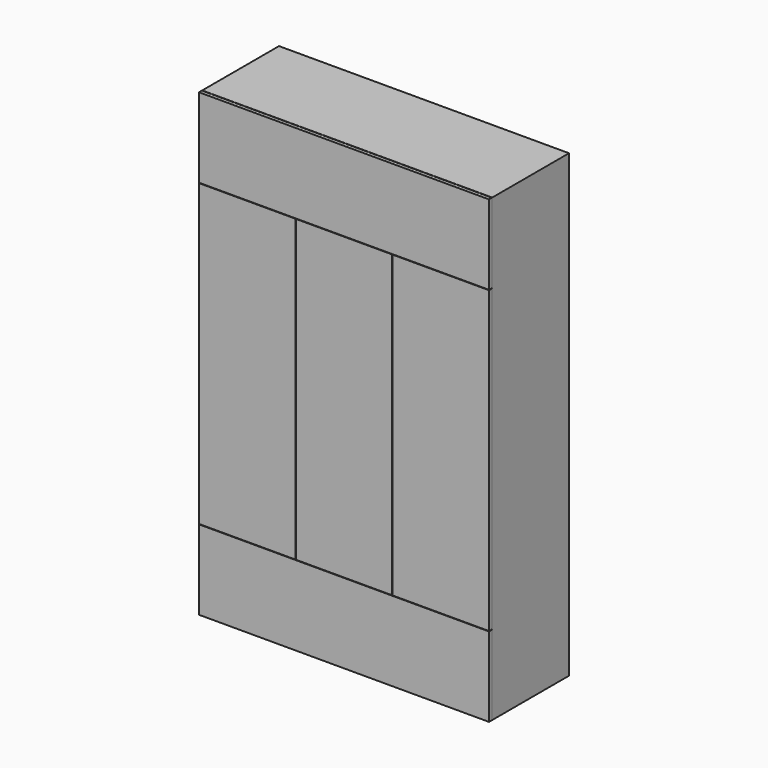
from build123d import *

# Parameters (mm, degrees)
F0_W      = 1450
F0_H      = 2300
F1_DEPTH  = 500
F2_W      = 482
F2_H      = 1500
F3_DEPTH  = 18
F5_DEPTH  = 1450
F6_W      = 1414
F6_H      = 2264
F7_DEPTH  = 480
F9_DEPTH  = 480
F10_W     = 18
F10_H     = 372
F11_DEPTH = 480


with BuildPart() as f1:
    # F0 (on Front) → F1 (new body)
    with BuildSketch(Plane.XZ):
        Rectangle(F0_W, F0_H)
    extrude(amount=F1_DEPTH)

    # F2 (on face) → F3 (cut)
    with BuildSketch(Plane.XZ.offset(500)):
        Polygon((725, 752), (-725, 752), (-725, 750), (-243, 750), (-243, -750), (-725, -750), (-725, -752), (725, -752), (725, -750), (243, -750), (243, 750), (725, 750), align=None)
        Rectangle(F2_W, F2_H, mode=Mode.SUBTRACT)
    extrude(amount=-F3_DEPTH, mode=Mode.SUBTRACT)

    # F4 (on face) → F5 (cut)
    with BuildSketch(Plane.YZ.offset(725)):
        Polygon((-480, 1150), (-482, 1150), (-482, -1150), (-480, -1150), (-480, -753), (-480, -747), (-480, 747), (-480, 753), align=None)
    extrude(amount=-F5_DEPTH, mode=Mode.SUBTRACT)

    # F6 (on face) → F7 (cut)
    with BuildSketch(Plane.XZ):
        Rectangle(F6_W, F6_H)
    extrude(amount=F7_DEPTH, mode=Mode.SUBTRACT)

    # F8 (on face) → F9 (join)
    with BuildSketch(Plane.XZ):
        Polygon((-725, -960), (725, -960), (725, -942), (-233, -942), (-251, -942), (-725, -942), align=None)
        Polygon((-233, -760), (725, -760), (725, -742), (-233, -742), (-233, -560), (725, -560), (725, -542), (-233, -542), (-233, -360), (725, -360), (725, -342), (-233, -342), (-233, 742), (725, 742), (725, 760), (-725, 760), (-725, 742), (-251, 742), (-251, -342), (-725, -342), (-725, -360), (-251, -360), (-251, -542), (-725, -542), (-725, -560), (-251, -560), (-251, -742), (-725, -742), (-725, -760), (-251, -760), align=None)
    extrude(amount=F9_DEPTH)


with BuildPart() as f11:
    # F10 (on face) → F11 (new body)
    with BuildSketch(Plane.XZ):
        with Locations((0, -946)):
            Rectangle(F10_W, F10_H)
    extrude(amount=F11_DEPTH)


solid = Compound([f1.part, f11.part])
